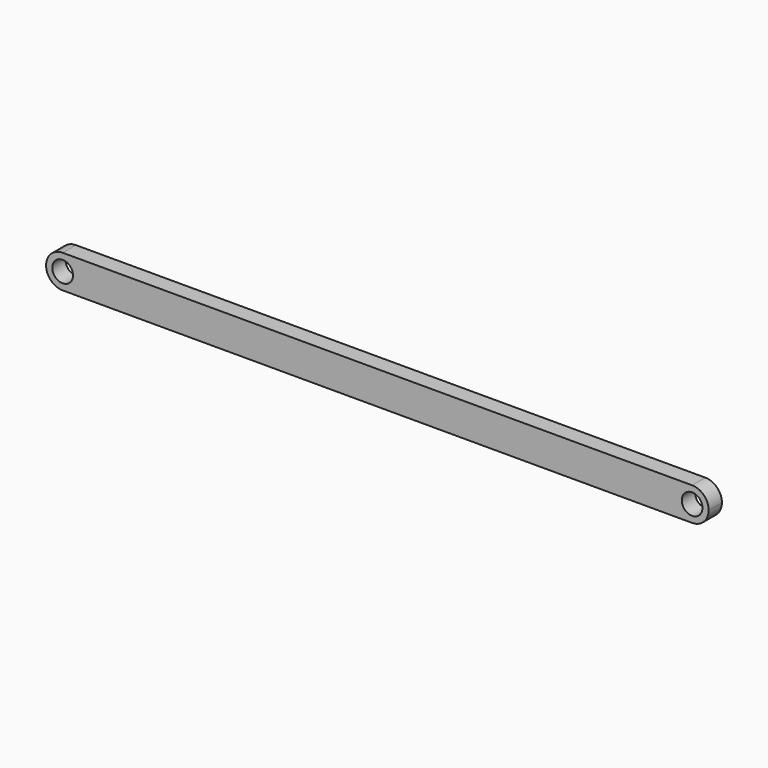
from build123d import *

# Parameters (mm, degrees)
F0_R     = 3.96875
F1_DEPTH = 3.175


with BuildPart() as f1:
    # F0 (on Front) → F1 (new body, symmetric)
    with BuildSketch(Plane.XZ):
        with BuildLine():
            Line((120.65, 6.35), (-120.65, 6.35))
            ThreePointArc((-120.65, 6.35), (-125.140128, 4.490128), (-127, 0))
            ThreePointArc((-127, 0), (-125.140128, -4.490128), (-120.65, -6.35))
            Line((-120.65, -6.35), (120.65, -6.35))
            ThreePointArc((120.65, -6.35), (125.140128, -4.490128), (127, 0))
            ThreePointArc((127, 0), (125.140128, 4.490128), (120.65, 6.35))
        make_face()
        with Locations((-120.65, 0)):
            Circle(F0_R, mode=Mode.SUBTRACT)
        with Locations((120.65, 0)):
            Circle(F0_R, mode=Mode.SUBTRACT)
    extrude(amount=F1_DEPTH, both=True)


solid = f1.part
